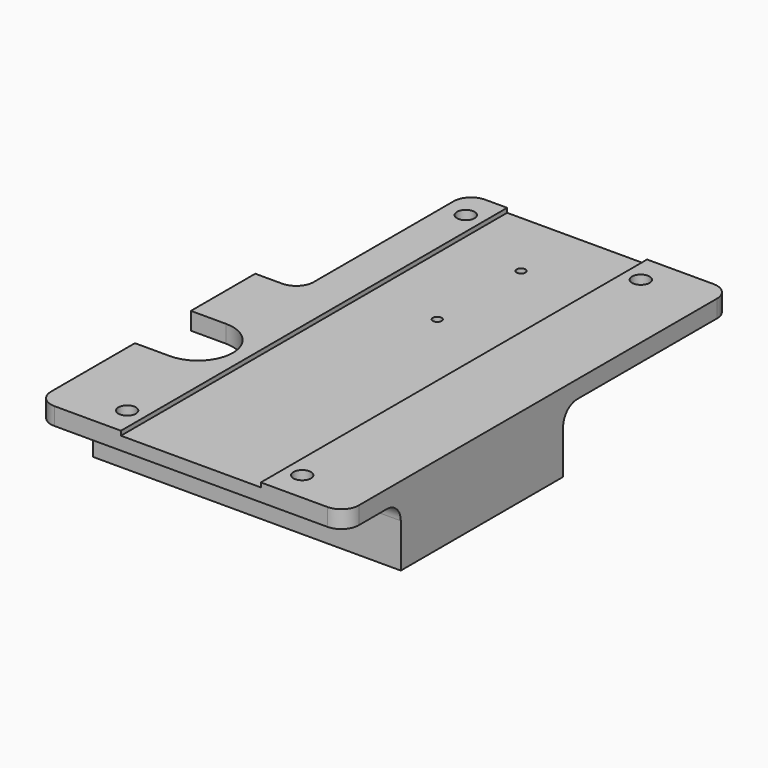
from build123d import *

# Parameters (mm, degrees)
F0_R      = 0.8001
F1_DEPTH  = 3.175
F2_W      = 55.88
F2_H      = 36.83
F3_DEPTH  = 11.1252
F5_DEPTH  = 14.3012
F6_W      = 30.48
F6_H      = 7.9502
F7_DEPTH  = 52.705
F8_W      = 55.88
F8_H      = 3.175
F9_DEPTH  = 12.7
F10_R     = 3.175
F11_R     = 1.5875
F12_DEPTH = 14.3012
F13_W     = 25.4
F13_H     = 1.6002
F14_DEPTH = 87.631


with BuildPart() as f1:
    # F0 (on Top) → F1 (new body)
    with BuildSketch(Plane.XY):
        Polygon((-27.94, 0), (27.94, 0), (27.94, 74.93), (-19.8755, 74.93), (-19.8755, 36.83), (-27.94, 36.83), align=None)
        with Locations((0, 43.1927)):
            Circle(F0_R, mode=Mode.SUBTRACT)
        with Locations((0, 62.2173)):
            Circle(F0_R, mode=Mode.SUBTRACT)
    extrude(amount=F1_DEPTH)

    # F2 (on face) → F3 (join)
    with BuildSketch(Plane(origin=(0, 0, 0), x_dir=(1, 0, 0), z_dir=(0, 0, -1))):
        with Locations((0, -18.415)):
            Rectangle(F2_W, F2_H)
    extrude(amount=F3_DEPTH)

    # F4 (on face) → F5 (cut, through all)
    with BuildSketch(Plane(origin=(0, 0, -11.1252), x_dir=(1, 0, 0), z_dir=(0, 0, -1))):
        with BuildLine():
            Line((-27.94, -9.525), (-27.94, -22.225))
            Line((-27.94, -22.225), (-21.59, -22.225))
            ThreePointArc((-21.59, -22.225), (-15.24, -15.875), (-21.59, -9.525))
            Line((-21.59, -9.525), (-27.94, -9.525))
        make_face()
    extrude(amount=-F5_DEPTH, mode=Mode.SUBTRACT)

    # F6 (on face) → F7 (cut)
    with BuildSketch(Plane(origin=(-27.94, 0, 0), x_dir=(0, -1, 0), z_dir=(-1, 0, 0))):
        with Locations((-18.415, -3.9751)):
            Rectangle(F6_W, F6_H)
    extrude(amount=-F7_DEPTH, mode=Mode.SUBTRACT)

    # F8 (on face) → F9 (join)
    with BuildSketch(Plane.XZ):
        with Locations((0, 1.5875)):
            Rectangle(F8_W, F8_H)
    extrude(amount=F9_DEPTH)

    # F10
    f10_edges = [f1.edges().sort_by_distance(p)[0] for p in [
        (4.03225, 36.83, 0),
        (-19.8755, 36.83, 1.5875),
        (-19.8755, 74.93, 1.5875),
        (27.94, 74.93, 1.5875),
        (0, 0, 0),
        (-27.94, -12.7, 1.5875),
        (27.94, -12.7, 1.5875),
    ]]
    fillet(f10_edges, radius=F10_R)

    # F11 (on face) → F12 (cut, through all)
    with BuildSketch(Plane.XY.offset(3.175)):
        with Locations((-15.8877, 69.5325)):
            Circle(F11_R)
        with Locations((15.8877, 69.5325)):
            Circle(F11_R)
        with Locations((-15.8877, -7.3025)):
            Circle(F11_R)
        with Locations((15.8877, -7.3025)):
            Circle(F11_R)
    extrude(amount=-F12_DEPTH, mode=Mode.SUBTRACT)

    # F13 (on face) → F14 (cut, through all)
    with BuildSketch(Plane.XZ.offset(12.7)):
        with Locations((0, 3.175)):
            Rectangle(F13_W, F13_H)
    extrude(amount=-F14_DEPTH, mode=Mode.SUBTRACT)


solid = f1.part
